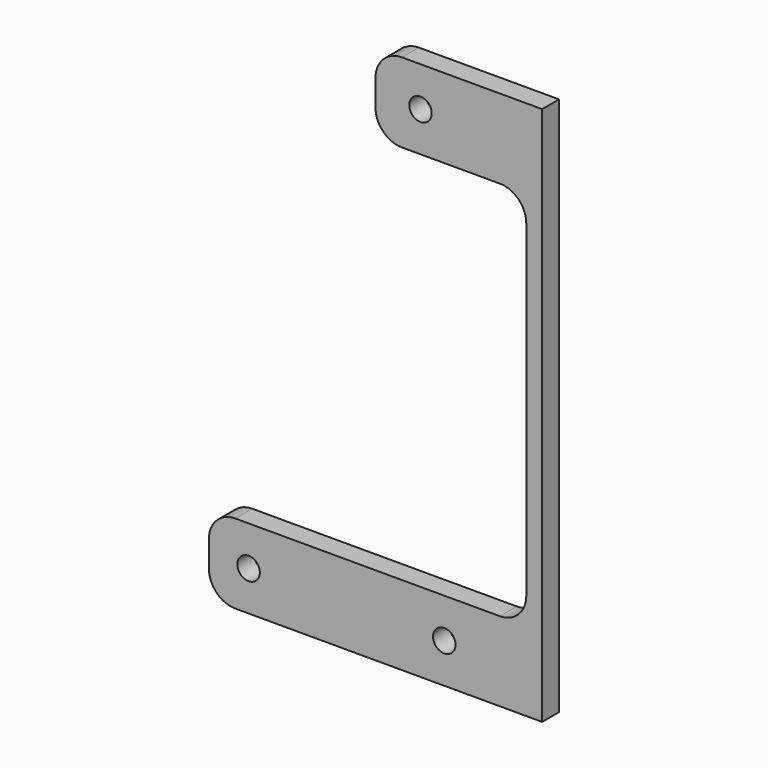
from build123d import *

# Parameters (mm, degrees)
F0_R     = 4.25
F1_DEPTH = 8


with BuildPart() as f1:
    # F0 (on Front) → F1 (new body)
    with BuildSketch(Plane.XZ):
        with BuildLine():
            Line((0, -183.0111), (0, 0))
            Line((0, 0), (0, 15))
            Line((0, 15), (-53, 15))
            ThreePointArc((-53, 15), (-60.071068, 12.071068), (-63, 5))
            Line((-63, 5), (-63, -5))
            ThreePointArc((-63, -5), (-60.071068, -12.071068), (-53, -15))
            Line((-53, -15), (-16, -15))
            ThreePointArc((-16, -15), (-8.928932, -17.928932), (-6, -25))
            Line((-6, -25), (-6, -149))
            ThreePointArc((-6, -149), (-8.928932, -156.071068), (-16, -159))
            Line((-16, -159), (-22.579605, -159))
            Line((-22.579605, -159), (-116, -159))
            ThreePointArc((-116, -159), (-123.071068, -161.928932), (-126, -169))
            Line((-126, -169), (-126, -179))
            ThreePointArc((-126, -179), (-123.071068, -186.071068), (-116, -189))
            Line((-116, -189), (0, -189))
            Line((0, -189), (0, -183.0111))
        make_face()
        with Locations((-111, -174)):
            Circle(F0_R, mode=Mode.SUBTRACT)
        with Locations((-37, -174)):
            Circle(F0_R, mode=Mode.SUBTRACT)
        with Locations((-46, 0)):
            Circle(F0_R, mode=Mode.SUBTRACT)
    extrude(amount=F1_DEPTH)


solid = f1.part
